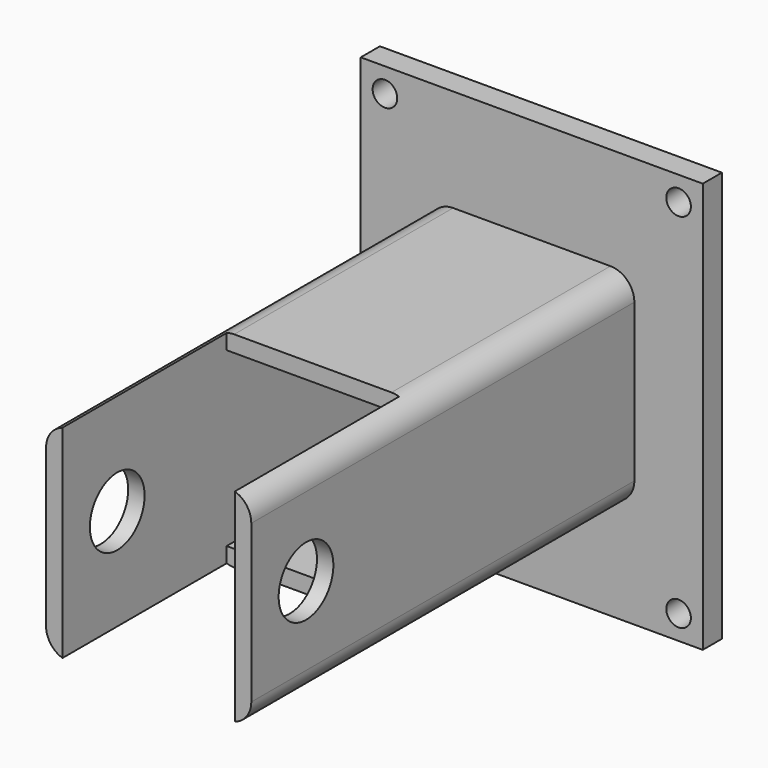
from build123d import *

# Parameters (mm, degrees)
F0_W      = 32.004
F0_H      = 32.004
F1_DEPTH  = 88.9
F2_R      = 6.35
F3_DEPTH  = 24.384
F5_W      = 32.004
F5_H      = 50.8
F6_DEPTH  = 38.1
F7_W      = 63.5
F7_H      = 76.2
F8_DEPTH  = 4.445
F9_R      = 2.286
F10_DEPTH = 25.4


with BuildPart() as f1:
    # F0 (on Front) → F1 (new body)
    with BuildSketch(Plane.XZ):
        with BuildLine():
            ThreePointArc((19.05, 14.605), (17.74809, 17.74809), (14.605, 19.05))
            Line((14.605, 19.05), (-14.605, 19.05))
            ThreePointArc((-14.605, 19.05), (-17.74809, 17.74809), (-19.05, 14.605))
            Line((-19.05, 14.605), (-19.05, -14.605))
            ThreePointArc((-19.05, -14.605), (-17.74809, -17.74809), (-14.605, -19.05))
            Line((-14.605, -19.05), (14.605, -19.05))
            ThreePointArc((14.605, -19.05), (17.74809, -17.74809), (19.05, -14.605))
            Line((19.05, -14.605), (19.05, 14.605))
        make_face()
        Rectangle(F0_W, F0_H, mode=Mode.SUBTRACT)
    extrude(amount=F1_DEPTH)

    # F2 (on Right) → F3 (cut, symmetric)
    with BuildSketch(Plane.YZ):
        with Locations((-76.2, 0)):
            Circle(F2_R)
    extrude(amount=F3_DEPTH, both=True, mode=Mode.SUBTRACT)

    # F5 (on offset) → F6 (cut)
    with BuildSketch(Plane.XZ.offset(88.9)):
        Rectangle(F5_W, F5_H)
    extrude(amount=-F6_DEPTH, mode=Mode.SUBTRACT)

    # F7 (on Front) → F8 (join)
    with BuildSketch(Plane.XZ):
        Rectangle(F7_W, F7_H)
    extrude(amount=-F8_DEPTH)

    # F9 (on face) → F10 (cut)
    with BuildSketch(Plane.XZ):
        with Locations((27.259872, 33.609872)):
            Circle(F9_R)
        with BuildLine():
            ThreePointArc((28.876318, -35.226318), (29.371861, -34.484686), (29.545872, -33.609872))
            ThreePointArc((29.545872, -33.609872), (25.147883, -32.735058), (28.876318, -35.226318))
        make_face()
        with Locations((-27.259872, -33.609872)):
            Circle(F9_R)
        with Locations((-27.259872, 33.609872)):
            Circle(F9_R)
    extrude(amount=-F10_DEPTH, mode=Mode.SUBTRACT)


solid = f1.part
